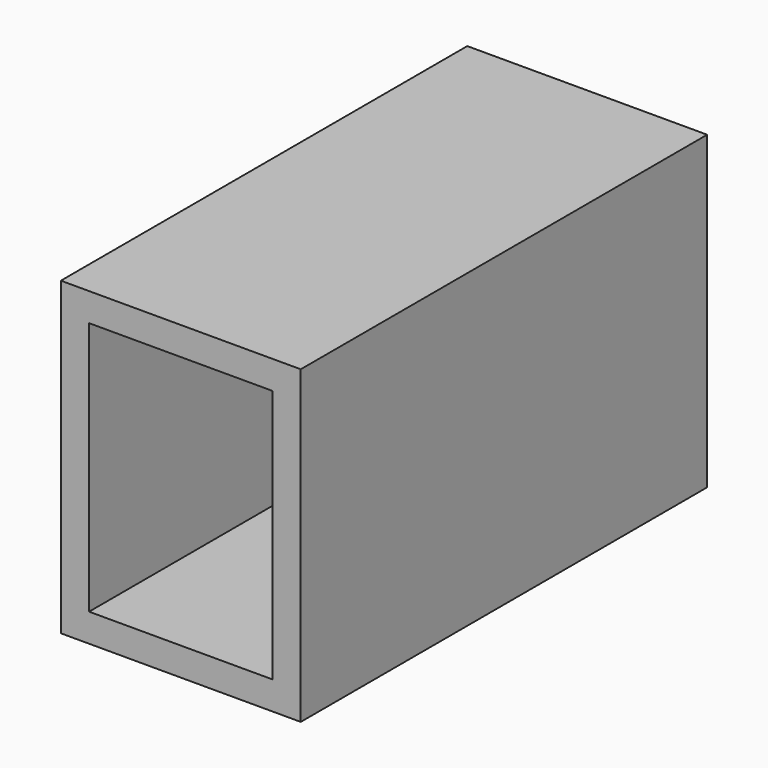
from build123d import *

# Parameters (mm, degrees)
F0_W     = 215.9
F0_H     = 457.2
F1_DEPTH = 139.7
F2_W     = 165.1
F2_H     = 228.6
F3_DEPTH = 477.52


with BuildPart() as f1:
    # F0 (on Top) → F1 (new body, symmetric)
    with BuildSketch(Plane.XY):
        with Locations((12.013638, 165.150251)):
            Rectangle(F0_W, F0_H)
    extrude(amount=F1_DEPTH, both=True)

    # F2 (on face) → F3 (cut)
    with BuildSketch(Plane.XZ.offset(63.449749)):
        with Locations((12.013638, 0)):
            Rectangle(F2_W, F2_H)
    extrude(amount=-F3_DEPTH, mode=Mode.SUBTRACT)


solid = f1.part
